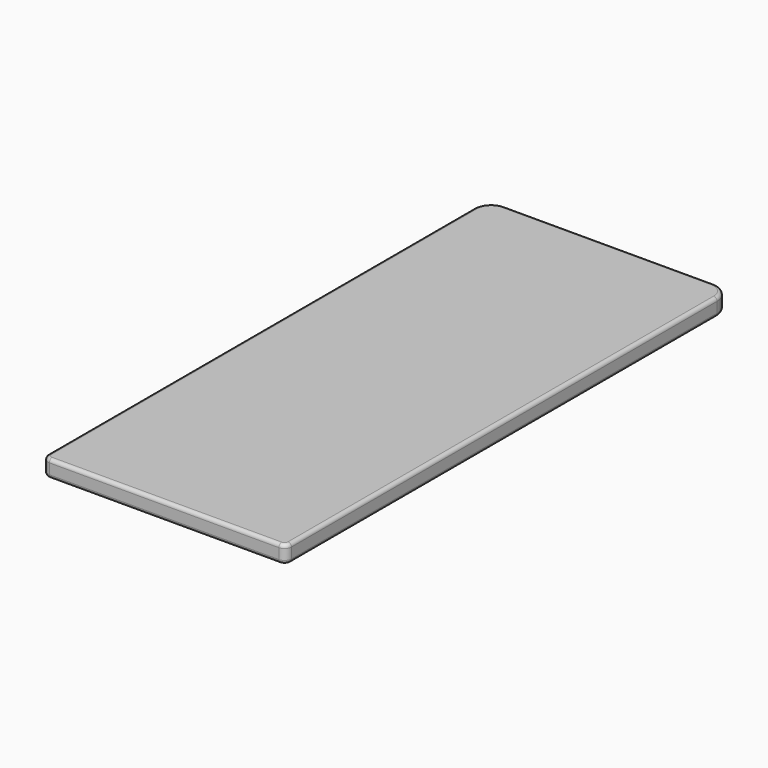
from build123d import *

# Parameters (mm, degrees)
F1_DEPTH = 2.5
F2_R     = 1


with BuildPart() as f1:
    # F0 (on Top) → F1 (new body, symmetric)
    with BuildSketch(Plane.XY):
        with BuildLine():
            Line((30, 80), (-30, 80))
            ThreePointArc((-30, 80), (-33.535534, 78.535534), (-35, 75))
            Line((-35, 75), (-35, -78))
            ThreePointArc((-35, -78), (-34.414214, -79.414214), (-33, -80))
            Line((-33, -80), (33, -80))
            ThreePointArc((33, -80), (34.414214, -79.414214), (35, -78))
            Line((35, -78), (35, 75))
            ThreePointArc((35, 75), (33.535534, 78.535534), (30, 80))
        make_face()
    extrude(amount=F1_DEPTH, both=True)

    # F2
    f2_edges = [f1.edges().sort_by_distance(p)[0] for p in [
        (35, -1.5, -2.5),
        (33.535534, 78.535534, -2.5),
        (0, 80, -2.5),
        (-33.535534, 78.535534, -2.5),
        (-35, -1.5, -2.5),
        (-34.414214, -79.414214, -2.5),
        (0, -80, -2.5),
        (34.414214, -79.414214, -2.5),
        (35, -1.5, 2.5),
        (33.535534, 78.535534, 2.5),
        (0, 80, 2.5),
        (-33.535534, 78.535534, 2.5),
        (-35, -1.5, 2.5),
        (-34.414214, -79.414214, 2.5),
        (0, -80, 2.5),
        (34.414214, -79.414214, 2.5),
    ]]
    fillet(f2_edges, radius=F2_R)


solid = f1.part
